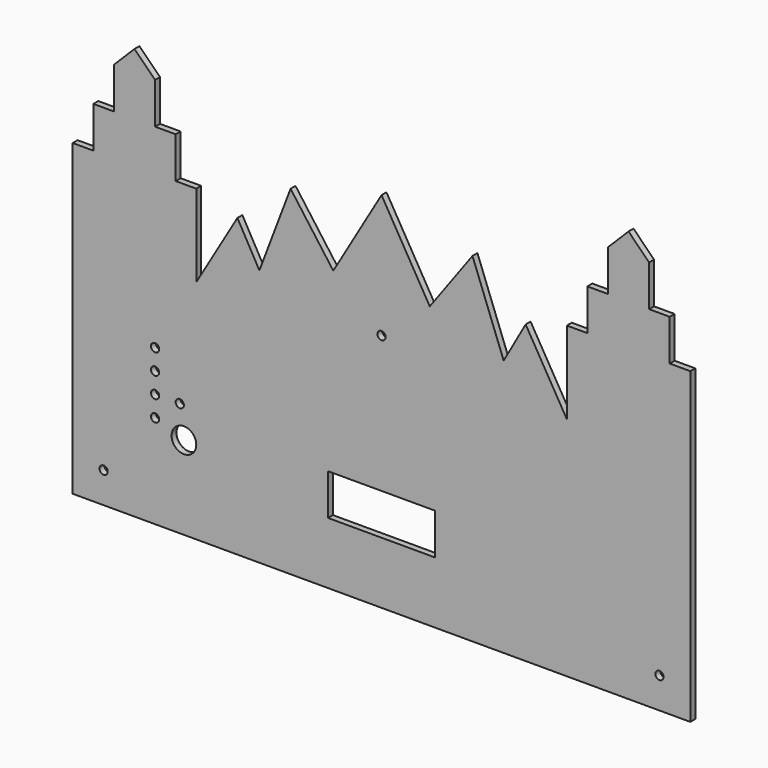
from build123d import *

# Parameters (mm, degrees)
F0_R     = 2
F0_R_2   = 6
F1_DEPTH = 3


with BuildPart() as f1:
    # F0 (on Front) → F1 (new body)
    with BuildSketch(Plane.XZ):
        with BuildLine():
            Line((0, -50), (0, -200))
            Line((0, -200), (60, -200))
            Line((60, -200), (150, -200))
            Line((150, -200), (150, -170))
            Line((150, -170), (124, -170))
            Line((124, -170), (124, -150))
            Line((124, -150), (150, -150))
            Line((150, -150), (150, -85.564818))
            ThreePointArc((150, -85.564818), (148, -83.564818), (150, -81.564818))
            Line((150, -81.564818), (150, -23.467001))
            Line((150, -23.467001), (126.56562, -63.4543))
            Line((126.56562, -63.4543), (105.812728, -35.108875))
            Line((105.812728, -35.108875), (90.669312, -75))
            Line((90.669312, -75), (80, -56))
            Line((80, -56), (60, -90))
            Line((60, -90), (60, -50))
            Line((60, -50), (50, -50))
            Line((50, -50), (50, -30))
            Line((50, -30), (40, -30))
            Line((40, -30), (40, -10))
            Line((40, -10), (30, 0))
            Line((30, 0), (20, -10))
            Line((20, -10), (20, -30))
            Line((20, -30), (10, -30))
            Line((10, -30), (10, -50))
            Line((10, -50), (0, -50))
        make_face()
        with Locations((15, -185)):
            Circle(F0_R, mode=Mode.SUBTRACT)
        with Locations((54, -159.517903)):
            Circle(F0_R_2, mode=Mode.SUBTRACT)
        with Locations((40.004167, -154.517904)):
            Circle(F0_R, mode=Mode.SUBTRACT)
        with Locations((40.004167, -144.517904)):
            Circle(F0_R, mode=Mode.SUBTRACT)
        with Locations((52, -144.517904)):
            Circle(F0_R, mode=Mode.SUBTRACT)
        with Locations((40, -134.517904)):
            Circle(F0_R, mode=Mode.SUBTRACT)
        with Locations((40, -124.517904)):
            Circle(F0_R, mode=Mode.SUBTRACT)
        with BuildLine():
            Line((150, -170), (150, -200))
            Line((150, -200), (300, -200))
            Line((300, -200), (300, -50))
            Line((300, -50), (290, -50))
            Line((290, -50), (290, -30))
            Line((290, -30), (280, -30))
            Line((280, -30), (280, -10))
            Line((280, -10), (270, 0))
            Line((270, 0), (260, -10))
            Line((260, -10), (260, -30))
            Line((260, -30), (250, -30))
            Line((250, -30), (250, -50))
            Line((250, -50), (240, -50))
            Line((240, -50), (240, -90))
            Line((240, -90), (220, -56))
            Line((220, -56), (209.330688, -75))
            Line((209.330688, -75), (194.187272, -35.108875))
            Line((194.187272, -35.108875), (173.43438, -63.4543))
            Line((173.43438, -63.4543), (150, -23.467001))
            Line((150, -23.467001), (150, -81.564818))
            ThreePointArc((150, -81.564818), (151.414214, -82.150604), (152, -83.564818))
            ThreePointArc((152, -83.564818), (151.414214, -84.979031), (150, -85.564818))
            Line((150, -85.564818), (150, -150))
            Line((150, -150), (176, -150))
            Line((176, -150), (176, -170))
            Line((176, -170), (150, -170))
        make_face()
        with Locations((285, -185)):
            Circle(F0_R, mode=Mode.SUBTRACT)
    extrude(amount=F1_DEPTH)


solid = f1.part
